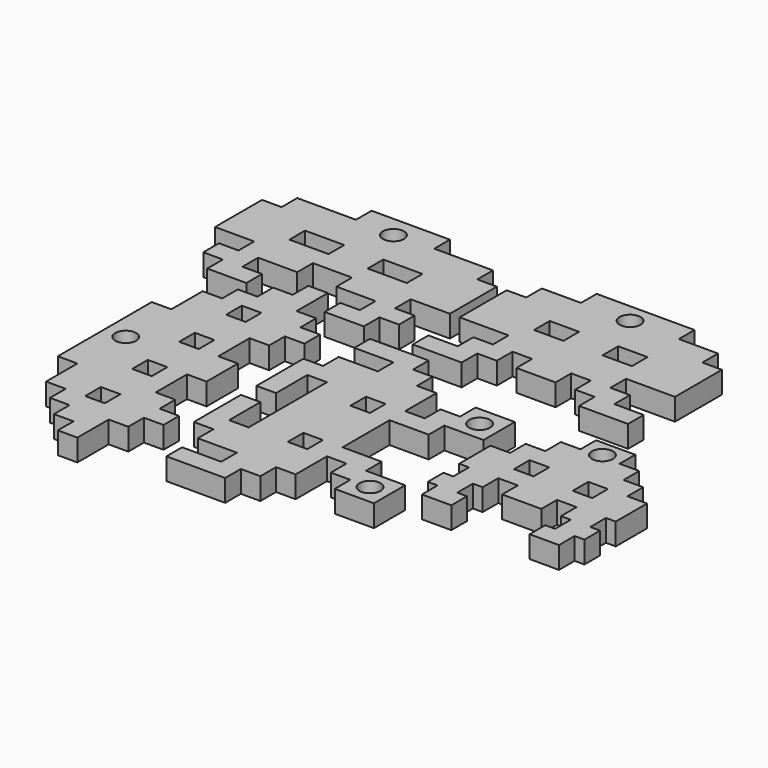
from build123d import *

# Parameters (mm, degrees)
F0_W     = 148.9667921196
F0_H     = 74.4833960598
F0_R     = 40
F0_W_2   = 148.9668169475
F1_DEPTH = 83.3333333333
F0_W_3   = 74.4833960598
F0_W_4   = 74.4834208877
F0_W_5   = 111.7251065036
F2_SCALE = 0.06


with BuildPart() as f1:
    # F0 (on Top) → F1 (new body)
    with BuildSketch(Plane.XY):
        Polygon((-759.0710083364, 641.1395072161), (-759.0710083364, 566.6561111563), (-610.1042162169, 566.6561111563), (-610.1042162169, 641.1395072161), (-684.5876122766, 641.1395072161), (-684.5876122766, 715.6229032759), (-535.6208201571, 715.6229032759), (-535.6208201571, 790.1062993357), (-386.6540280375, 790.1062993357), (-386.6540280375, 715.6229032759), (-237.68721109, 715.6229032759), (-237.68721109, 641.1395072161), (-312.1706071498, 641.1395072161), (-312.1706071498, 566.6561111563), (-163.2038150302, 566.6561111563), (-163.2038150302, 641.1395072161), (-88.7204189704, 641.1395072161), (-88.7204189704, 715.6229032759), (-163.2038150302, 715.6229032759), (-163.2038150302, 790.1062993357), (-14.2370229107, 790.1062993357), (-14.2370229107, 1013.5564875151), (-88.7204189704, 1013.5564875151), (-88.7204189704, 1088.0398835749), (-312.1706071498, 1088.0398835749), (-312.1706071498, 1162.5275748567), (-610.1042162169, 1162.5275748567), (-610.1042162169, 1088.0398835749), (-833.5544043962, 1088.0398835749), (-833.5544043962, 1013.5564875151), (-908.037800456, 1013.5564875151), (-908.037800456, 790.1062993357), (-759.0710083364, 790.1062993357), (-759.0710083364, 715.6229032759), (-833.5544043962, 715.6229032759), (-833.5544043962, 641.1395072161), align=None)
        with Locations((-610.1042162169, 901.8313934254)):
            Rectangle(F0_W, F0_H, mode=Mode.SUBTRACT)
        with Locations((-461.1374116833, 1080.218911171)):
            Circle(F0_R, mode=Mode.SUBTRACT)
        with Locations((-312.1706195638, 901.8313934254)):
            Rectangle(F0_W_2, F0_H, mode=Mode.SUBTRACT)
    extrude(amount=F1_DEPTH)


with BuildPart() as f1b:
    # F0 (on Top) → F1, piece 2 (new body)
    with BuildSketch(Plane.XY):
        Polygon((-678.5919291848, -151.5585210828), (-678.5919291848, -300.5253380302), (-604.1085082971, -300.5253380302), (-604.1085082971, -375.00873409), (-529.6251122373, -375.00873409), (-529.6251122373, -449.4921301498), (-455.1417161775, -449.4921301498), (-455.1417161775, -523.9755262096), (-380.6583201177, -523.9755262096), (-380.6583201177, -375.00873409), (-306.1749240579, -375.00873409), (-306.1749240579, -300.5253380302), (-231.6744215935, -300.5253380302), (-231.6744215935, -226.0419419704), (-306.1749240579, -226.0419419704), (-306.1749240579, -151.5585210828), (-380.6583201177, -151.5585210828), (-380.6583201177, -2.5917289632), (-306.1749240579, -2.5917289632), (-306.1749240579, 146.3750631564), (-380.6583201177, 146.3750631564), (-380.6583201177, 295.341855276), (-306.1749240579, 295.341855276), (-306.1749240579, 369.8252761636), (-231.6744215935, 369.8252761636), (-231.6744215935, 444.3086722234), (-306.1749240579, 444.3086722234), (-306.1749240579, 518.7920682832), (-380.6583201177, 518.7920682832), (-380.6583201177, 667.7588604028), (-455.1417161775, 667.7588604028), (-455.1417161775, 593.275464343), (-529.6251122373, 593.275464343), (-529.6251122373, 518.7920682832), (-604.1085082971, 518.7920682832), (-604.1085082971, 444.3086722234), (-678.5919291848, 444.3086722234), (-678.5919291848, 295.341855276), (-753.0753252446, 295.341855276), (-753.0753252446, -151.5585210828), align=None)
        with Locations((-492.3834142074, -263.2836400003)):
            Rectangle(F0_W_3, F0_H, mode=Mode.SUBTRACT)
        with Locations((-673.4555363655, 71.8916670966)):
            Circle(F0_R, mode=Mode.SUBTRACT)
        with Locations((-492.3834142074, -39.8334269931)):
            Rectangle(F0_W_3, F0_H, mode=Mode.SUBTRACT)
        with Locations((-492.3834142074, 183.6167611863)):
            Rectangle(F0_W_3, F0_H, mode=Mode.SUBTRACT)
        with Locations((-492.3834142074, 407.0669741935)):
            Rectangle(F0_W_3, F0_H, mode=Mode.SUBTRACT)
    extrude(amount=F1_DEPTH)


with BuildPart() as f1c:
    # F0 (on Top) → F1, piece 3 (new body)
    with BuildSketch(Plane.XY):
        Polygon((-173.1823358803, 292.1213325356), (-173.1823358803, 68.6711443562), (-98.6989398205, 68.6711443562), (-98.6989398205, 217.6379364758), (-24.2155437608, 217.6379364758), (-24.2155437608, -154.779068651), (-98.6989398205, -154.779068651), (-98.6989398205, -5.8122765315), (-173.1823358803, -5.8122765315), (-173.1823358803, -117.5373582072), (-173.1823358803, -229.2624647108), (-98.6989398205, -229.2624647108), (-98.6989398205, -303.7458607706), (50.267852299, -303.7458607706), (50.267852299, -378.2292568304), (-98.6989398205, -378.2292568304), (-98.6989398205, -452.7126528902), (124.7512483588, -452.7126528902), (124.7512483588, -378.2292568304), (199.2346692465, -378.2292568304), (199.2346692465, -303.7458607706), (273.7180653063, -303.7458607706), (273.7180653063, -229.2624647108), (273.7180653063, -154.779068651), (348.2014613661, -154.779068651), (348.2014613661, -229.2624647108), (422.6848574259, -229.2624647108), (422.6848574259, -303.7458607706), (571.6516495454, -303.7458607706), (571.6516495454, -154.779068651), (422.6848574259, -154.779068651), (422.2914101197, -88.2075957623), (422.6848574259, -80.2956725912), (273.7180653063, -80.2956725912), (273.7180653063, 143.154540416), (422.6848574259, 143.154540416), (422.6848574259, 217.6379364758), (571.6516495454, 217.6379364758), (571.6516495454, 366.6047285954), (422.6848574259, 366.6047285954), (422.6848574259, 292.1213325356), (348.2014613661, 292.1213325356), (348.2014613661, 217.6379364758), (273.7180653063, 217.6379364758), (273.7180653063, 366.6047285954), (199.2346692465, 366.6047285954), (199.2346692465, 441.0881246552), (124.7512483588, 441.0881246552), (124.7512483588, 515.571520715), (-98.6989398205, 515.571520715), (-98.6989398205, 441.0881246552), (50.267852299, 441.0881246552), (50.267852299, 366.6047285954), (-98.6989398205, 366.6047285954), (-98.6989398205, 292.1213325356), align=None)
        with Locations((161.9929588027, -117.5373706211)):
            Rectangle(F0_W_4, F0_H, mode=Mode.SUBTRACT)
        with Locations((497.1682534857, -229.2624647108)):
            Circle(F0_R, mode=Mode.SUBTRACT)
        with Locations((161.9929588027, 180.3962384459)):
            Rectangle(F0_W_4, F0_H, mode=Mode.SUBTRACT)
        with Locations((497.1682534857, 292.1213325356)):
            Circle(F0_R, mode=Mode.SUBTRACT)
    extrude(amount=F1_DEPTH)


with BuildPart() as f1d:
    # F0 (on Top) → F1, piece 4 (new body)
    with BuildSketch(Plane.XY):
        Polygon((618.8761512336, 1162.5361156451), (395.4259630542, 1162.5361156451), (246.4591461067, 1162.5361156451), (246.4591461067, 1088.0527195853), (97.4923539872, 1088.0527195853), (97.4923539872, 1013.5693235255), (23.0089579274, 1013.5693235255), (23.0089579274, 790.1191353461), (209.2174604908, 790.1191353461), (209.2174604908, 715.6357392863), (134.734064431, 715.6357392863), (134.734064431, 641.1523183987), (23.0089579274, 641.1523183987), (23.0089579274, 566.6603815505), (209.2174604908, 566.6603815505), (209.2174604908, 641.1523183987), (283.7008565506, 641.1523183987), (283.7008565506, 715.6357392863), (358.1842526104, 715.6357392863), (358.1842526104, 641.1523183987), (507.1596103462, 641.1523183987), (507.1510447299, 715.6357392863), (581.643006406, 715.6357392863), (581.643006406, 641.1523183987), (656.1178368495, 641.1523183987), (656.1178368495, 566.6603815505), (842.3349050292, 566.6603815505), (842.3349050292, 641.1523183987), (767.8429433531, 641.1523183987), (730.6097985256, 641.1523183987), (730.6097985256, 715.6357392863), (656.1264024658, 715.6357392863), (656.1264024658, 790.1191353461), (842.3263394129, 790.1191353461), (842.3263394129, 1013.5693235255), (767.8429433531, 1013.5693235255), (767.8429433531, 1088.0527195853), (618.8761512336, 1088.0527195853), align=None)
        with Locations((302.3216993585, 901.8442294358)):
            Rectangle(F0_W_5, F0_H, mode=Mode.SUBTRACT)
        with Locations((563.0135979817, 901.8442294358)):
            Rectangle(F0_W_5, F0_H, mode=Mode.SUBTRACT)
        with Locations((432.6719314783, 1088.721871376)):
            Circle(F0_R, mode=Mode.SUBTRACT)
    extrude(amount=F1_DEPTH)


with BuildPart() as f1e:
    # F0 (on Top) → F1, piece 5 (new body)
    with BuildSketch(Plane.XY):
        Polygon((982.8178390914, 425.8477085047), (833.8510221439, 425.8477085047), (833.8510221439, 351.3643124449), (759.3676260841, 351.3643124449), (759.3676260841, 276.8808915573), (684.8842300243, 276.8808915573), (684.8842300243, 202.3974954975), (610.4008339646, 202.3974954975), (610.4008339646, 53.4307033779), (647.6425195805, 53.4307033779), (647.6425195805, -21.0526926819), (610.4008339646, -21.0526926819), (610.4008339646, -95.5360887417), (647.6425195805, -95.5360887417), (647.6425195805, -170.0237800235), (759.3676260841, -170.0237800235), (759.3676260841, -95.5360887417), (722.1259404682, -95.5360887417), (722.1259404682, -21.0526926819), (759.3676260841, -21.0526926819), (759.3676260841, 53.4307033779), (833.8510221439, 53.4307033779), (833.8510221439, -21.0526926819), (982.8178390914, -21.0526926819), (982.8178390914, 53.4307033779), (1057.3012351512, 53.4307033779), (1057.3012351512, -21.0526926819), (1094.5429207671, -21.0526926819), (1094.5429207671, -95.5360887417), (1057.3012351512, -95.5360887417), (1057.3012351512, -170.0237800235), (1169.0263168269, -170.0237800235), (1169.0263168269, -95.5360887417), (1206.2680272708, -95.5360887417), (1206.2680272708, -21.0526926819), (1169.0263168269, -21.0526926819), (1169.0263168269, 53.4307033779), (1206.2680272708, 53.4307033779), (1206.2680272708, 202.3974954975), (1131.784631211, 202.3974954975), (1131.784631211, 276.8808915573), (1057.3012351512, 276.8808915573), (1057.3012351512, 351.3643124449), (982.8178390914, 351.3643124449), align=None)
        with Locations((796.609324114, 165.1557974676)):
            Rectangle(F0_W_3, F0_H, mode=Mode.SUBTRACT)
        with Locations((1020.0595371213, 165.1557974676)):
            Rectangle(F0_W_3, F0_H, mode=Mode.SUBTRACT)
        with Locations((908.3344306177, 362.6329302788)):
            Circle(F0_R, mode=Mode.SUBTRACT)
    extrude(amount=F1_DEPTH)


with BuildPart() as f1d_1:
    # F2: moved
    add(f1d.part.scale(F2_SCALE))


with BuildPart() as f1_1:
    # F2: moved
    add(f1.part.scale(F2_SCALE))


with BuildPart() as f1b_1:
    # F2: moved
    add(f1b.part.scale(F2_SCALE))


with BuildPart() as f1c_1:
    # F2: moved
    add(f1c.part.scale(F2_SCALE))


with BuildPart() as f1e_1:
    # F2: moved
    add(f1e.part.scale(F2_SCALE))


solid = Compound([f1d_1.part, f1_1.part, f1b_1.part, f1c_1.part, f1e_1.part])
